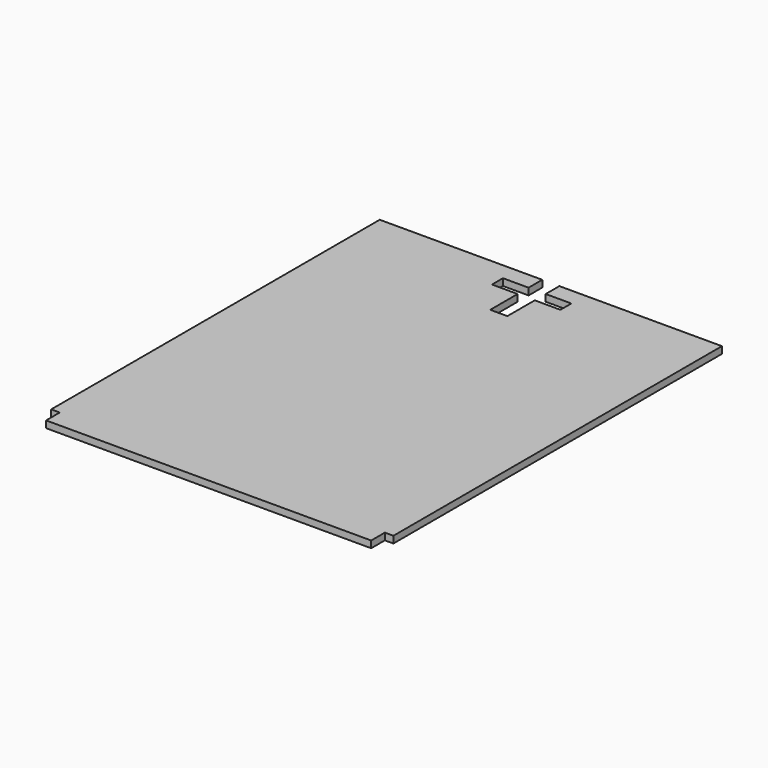
from build123d import *

# Parameters (mm, degrees)
F1_DEPTH = 4


with BuildPart() as f1:
    # F0 (on Top) → F1 (new body)
    with BuildSketch(Plane.XY):
        Polygon((5, -10), (20, -10), (20, -18), (5, -18), (5, -38), (-5, -38), (-5, -18), (-20, -18), (-20, -10), (-5, -10), (-5, 0), (-100, 0), (-100, -240), (-95, -240), (-95, -250), (95, -250), (95, -240), (100, -240), (100, 0), (5, 0), align=None)
    extrude(amount=F1_DEPTH)


solid = f1.part
